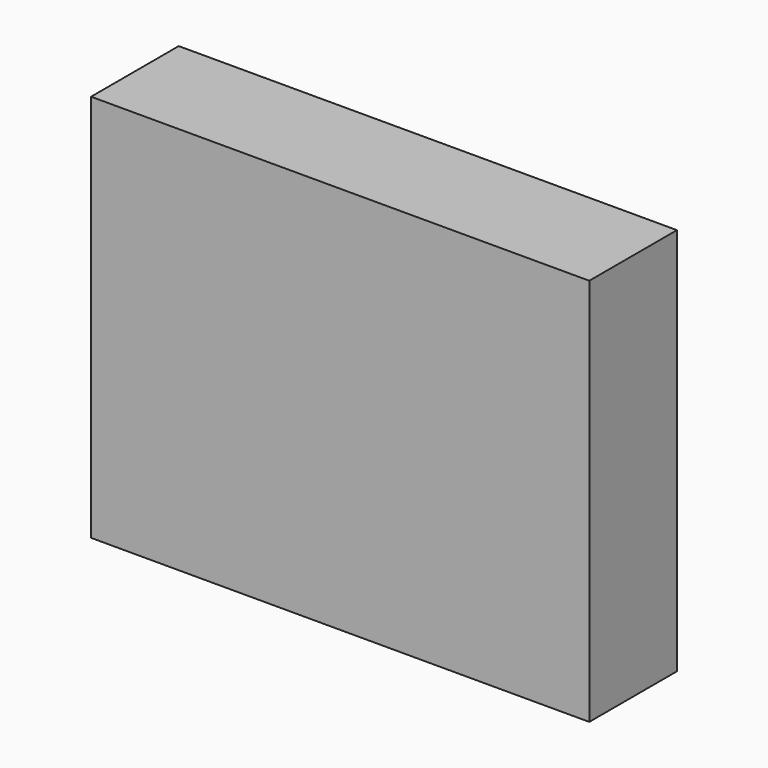
from build123d import *

# Parameters (mm, degrees)
F0_W     = 80.8320604265
F0_H     = 63.012579456
F1_DEPTH = 17.78
F2_T     = -2.54
F3_R     = 5.08


with BuildPart() as f1:
    # F0 (on Front) → F1 (new body)
    with BuildSketch(Plane.XZ):
        with Locations((5.305705592, -7.3265088722)):
            Rectangle(F0_W, F0_H)
    extrude(amount=F1_DEPTH)

    # F2
    f2_openings = [f1.faces().sort_by_distance(p)[0] for p in [
        (5.305706, 0, -7.326509),
    ]]
    offset(amount=F2_T, openings=f2_openings)

    # F3
    f3_edges = [f1.edges().sort_by_distance(p)[0] for p in [
        (-32.570325, -7.62, 21.639781),
        (43.181736, -7.62, 21.639781),
        (43.181736, -7.62, -36.292799),
        (-32.570325, -7.62, -36.292799),
    ]]
    fillet(f3_edges, radius=F3_R)


solid = f1.part
